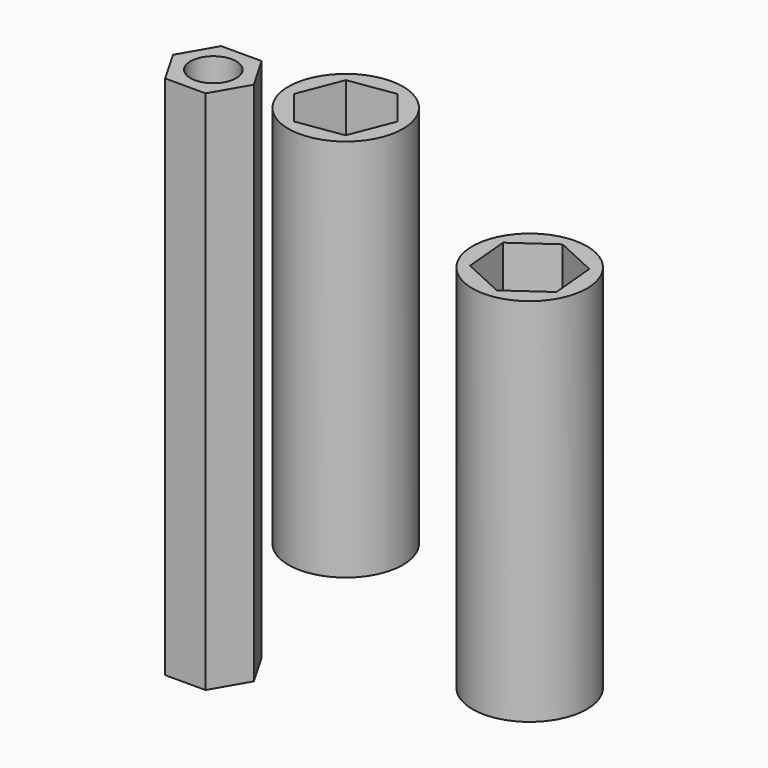
from build123d import *

# Parameters (mm, degrees)
F0_R      = 4.25
F0_R_2    = 1.9
F1_DEPTH  = 8
F2_R      = 3.05
F3_DEPTH  = 3
F4_R      = 4.25
F5_DEPTH  = 20.5
F6_R      = 4.25
F6_R_2    = 1.7
F7_DEPTH  = 2
F8_R      = 4.25
F9_DEPTH  = 25.5
F11_DEPTH = 39
F12_R     = 1.7
F13_DEPTH = 6


with BuildPart() as f1:
    # F0 (on Top) → F1 (new body)
    with BuildSketch(Plane.XY):
        Circle(F0_R)
        Circle(F0_R_2, mode=Mode.SUBTRACT)
    extrude(amount=F1_DEPTH)

    # F2 (on face) → F3 (cut)
    with BuildSketch(Plane(origin=(0, 0, 0), x_dir=(1, 0, 0), z_dir=(0, 0, -1))):
        Circle(F2_R)
    extrude(amount=-F3_DEPTH, mode=Mode.SUBTRACT)

    # F4 (on face) → F5 (join)
    with BuildSketch(Plane.XY.offset(8)):
        Circle(F4_R)
        Polygon((-2.157109, 2.710513), (1.268819, 3.223368), (3.425928, 0.512854), (2.157109, -2.710513), (-1.268819, -3.223368), (-3.425928, -0.512854), align=None, mode=Mode.SUBTRACT)
    extrude(amount=F5_DEPTH)


with BuildPart() as f7:
    # F6 (on Top) → F7 (new body)
    with BuildSketch(Plane.XY):
        with Locations((19.648151, -7.486545)):
            Circle(F6_R)
        with Locations((19.648151, -7.486545)):
            Circle(F6_R_2, mode=Mode.SUBTRACT)
    extrude(amount=F7_DEPTH)

    # F8 (on face) → F9 (join)
    with BuildSketch(Plane.XY.offset(2)):
        with Locations((19.648151, -7.486545)):
            Circle(F8_R)
        Polygon((16.503104, -6.034418), (19.333207, -4.03679), (22.478255, -5.488918), (22.793199, -8.938673), (19.963096, -10.936301), (16.818048, -9.484173), align=None, mode=Mode.SUBTRACT)
    extrude(amount=F9_DEPTH)


with BuildPart() as f11:
    # F10 (on Top) → F11 (new body)
    with BuildSketch(Plane.XY):
        Polygon((5.130074, -14.218488), (2.127852, -14.218488), (0.626742, -16.818488), (2.127852, -19.418488), (5.130074, -19.418488), (6.631184, -16.818488), align=None)
    extrude(amount=F11_DEPTH)

    # F12 (on face) → F13 (cut)
    with BuildSketch(Plane.XY.offset(39)):
        with Locations((3.628963, -16.818488)):
            Circle(F12_R)
    extrude(amount=-F13_DEPTH, mode=Mode.SUBTRACT)


solid = Compound([f1.part, f7.part, f11.part])
